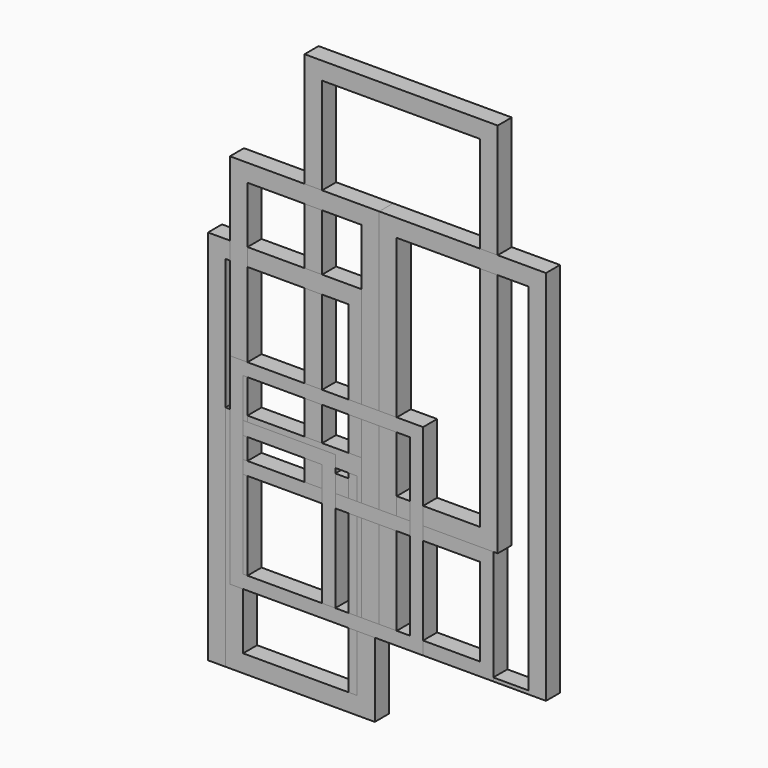
from build123d import *

# Parameters (mm, degrees)
F0_W      = 1100
F0_H      = 2145
F0_W_2    = 900
F0_H_2    = 1945
F1_DEPTH  = 100
F2_W      = 900
F2_H      = 2145
F2_W_2    = 700
F2_H_2    = 1945
F3_DEPTH  = 100
F4_W      = 850
F4_H      = 1300
F4_W_2    = 650
F4_H_2    = 1100
F5_DEPTH  = 100
F6_W      = 900
F6_H      = 2145
F6_W_2    = 750
F6_H_2    = 2025
F7_DEPTH  = 100
F8_W      = 850
F8_H      = 2145
F8_W_2    = 650
F8_H_2    = 2025
F9_DEPTH  = 100
F10_W     = 1500
F10_H     = 650
F10_W_2   = 1350
F10_H_2   = 500
F11_DEPTH = 100
F12_W     = 600
F12_H     = 845
F12_W_2   = 450
F12_H_2   = 695
F13_DEPTH = 100
F14_W     = 1100
F14_H     = 1145
F14_W_2   = 950
F14_H_2   = 995
F15_DEPTH = 100


with BuildPart() as f1:
    # F0 (on Front) → F1 (new body)
    with BuildSketch(Plane.XZ):
        with Locations((550, 1072.5)):
            Rectangle(F0_W, F0_H)
        with Locations((550, 1072.5)):
            Rectangle(F0_W_2, F0_H_2, mode=Mode.SUBTRACT)
    extrude(amount=F1_DEPTH)


with BuildPart() as f3:
    # F2 (on Front) → F3 (new body)
    with BuildSketch(Plane.XZ):
        with Locations((-100, 0)):
            Rectangle(F2_W, F2_H)
        with Locations((-100, 0)):
            Rectangle(F2_W_2, F2_H_2, mode=Mode.SUBTRACT)
    extrude(amount=F3_DEPTH)


with BuildPart() as f5:
    # F4 (on Front) → F5 (new body)
    with BuildSketch(Plane.XZ):
        with Locations((-25, -422.5)):
            Rectangle(F4_W, F4_H)
        with Locations((-25, -422.5)):
            Rectangle(F4_W_2, F4_H_2, mode=Mode.SUBTRACT)
    extrude(amount=F5_DEPTH)


with BuildPart() as f7:
    # F6 (on Front) → F7 (new body)
    with BuildSketch(Plane.XZ):
        with Locations((25, 422.5)):
            Rectangle(F6_W, F6_H)
        with Locations((50, 382.5)):
            Rectangle(F6_W_2, F6_H_2, mode=Mode.SUBTRACT)
        with Locations((925, 422.5)):
            Rectangle(F6_W, F6_H)
        with Locations((900, 382.5)):
            Rectangle(F6_W_2, F6_H_2, mode=Mode.SUBTRACT)
    extrude(amount=F7_DEPTH)


with BuildPart() as f9:
    # F8 (on Front) → F9 (new body)
    with BuildSketch(Plane.XZ):
        with Locations((0, 422.5)):
            Rectangle(F8_W, F8_H)
        with Locations((0, 382.5)):
            Rectangle(F8_W_2, F8_H_2, mode=Mode.SUBTRACT)
    extrude(amount=F9_DEPTH)


with BuildPart() as f11:
    # F10 (on Front) → F11 (new body)
    with BuildSketch(Plane.XZ):
        with Locations((325, -325)):
            Rectangle(F10_W, F10_H)
        with Locations((325, -325)):
            Rectangle(F10_W_2, F10_H_2, mode=Mode.SUBTRACT)
    extrude(amount=F11_DEPTH)


with BuildPart() as f13:
    # F12 (on Front) → F13 (new body)
    with BuildSketch(Plane.XZ):
        with Locations((-125, -227.5)):
            Rectangle(F12_W, F12_H)
        with Locations((-125, -227.5)):
            Rectangle(F12_W_2, F12_H_2, mode=Mode.SUBTRACT)
    extrude(amount=F13_DEPTH)


with BuildPart() as f15:
    # F14 (on Front) → F15 (new body)
    with BuildSketch(Plane.XZ):
        with Locations((125, -77.5)):
            Rectangle(F14_W, F14_H)
        with Locations((125, -77.5)):
            Rectangle(F14_W_2, F14_H_2, mode=Mode.SUBTRACT)
    extrude(amount=F15_DEPTH)


solid = Compound([f1.part, f3.part, f5.part, f7.part, f9.part, f11.part, f13.part, f15.part])
